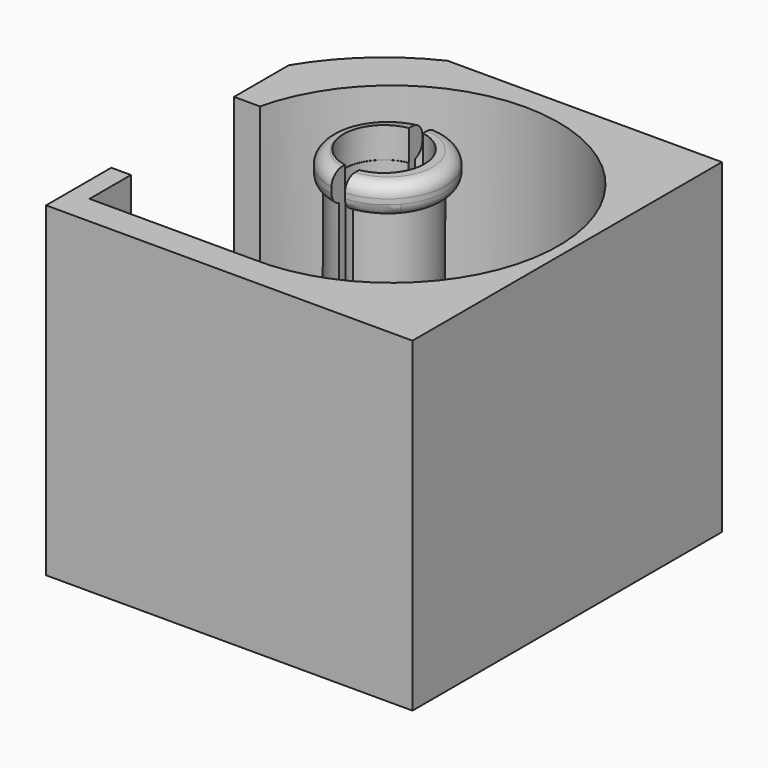
from build123d import *

# Parameters (mm, degrees)
F0_R      = 7.9
F1_DEPTH  = 4
F2_R      = 9.4
F2_R_2    = 7.9
F3_DEPTH  = 60
F4_W      = 3.080128
F4_H      = 16.594132
F5_DEPTH  = 25
F6_R      = 11.341969
F6_R_2    = 7.956315
F7_DEPTH  = 6
F8_R      = 2.5
F9_W      = 2.779254
F9_H      = 27.416152
F10_DEPTH = 40


with BuildPart() as f1:
    # F0 (on Top) → F1 (new body)
    with BuildSketch(Plane.XY):
        with BuildLine():
            Line((36, 38), (-17.888544, 38))
            ThreePointArc((-17.888544, 38), (-28.159562, 31.1615), (-36, 21.633308))
            Line((-36, 21.633308), (-36, -38))
            Line((-36, -38), (36, -38))
            Line((36, -38), (36, 38))
        make_face()
        Circle(F0_R, mode=Mode.SUBTRACT)
    extrude(amount=F1_DEPTH)

    # F2 (on face) → F3 (join)
    with BuildSketch(Plane.XY.offset(4)):
        Circle(F2_R)
        Circle(F2_R_2, mode=Mode.SUBTRACT)
        with BuildLine():
            Line((36, 38), (-17.888544, 38))
            ThreePointArc((-17.888544, 38), (-28.159562, 31.1615), (-36, 21.633308))
            Line((-36, 21.633308), (-36, 8.167186))
            Line((-36, 8.167186), (-30.917966, 8.167186))
            ThreePointArc((-30.917966, 8.167186), (27.040261, 20.60372), (0, -32.147087))
            Line((0, -32.147087), (-32.136563, -32.147087))
            Line((-32.136563, -32.147087), (-32.136563, -29.065894))
            Line((-32.136563, -29.065894), (-32.136563, -21.989353))
            Line((-32.136563, -21.989353), (-36, -21.989353))
            Line((-36, -21.989353), (-36, -29.065894))
            Line((-36, -29.065894), (-36, -38))
            Line((-36, -38), (36, -38))
            Line((36, -38), (36, 38))
        make_face()
    extrude(amount=F3_DEPTH)

    # F4 (on face) → F5 (cut)
    with BuildSketch(Plane(origin=(-36, 0, 0), x_dir=(0, -1, 0), z_dir=(-1, 0, 0))):
        with Locations((26.73703, 32.321629)):
            Rectangle(F4_W, F4_H)
    extrude(amount=-F5_DEPTH, mode=Mode.SUBTRACT)

    # F6 (on face) → F7 (join)
    with BuildSketch(Plane.XY.offset(64)):
        with Locations((0.724832, 0)):
            Circle(F6_R)
        Circle(F6_R_2, mode=Mode.SUBTRACT)
    extrude(amount=F7_DEPTH)

    # F8
    f8_edges = [f1.edges().sort_by_distance(p)[0] for p in [
        (-10.617137, 0, 70),
        (-10.617137, 0, 64),
    ]]
    fillet(f8_edges, radius=F8_R)

    # F9 (on face) → F10 (cut)
    with BuildSketch(Plane.XY.offset(70)):
        Rectangle(F9_W, F9_H)
    extrude(amount=-F10_DEPTH, mode=Mode.SUBTRACT)


solid = f1.part
